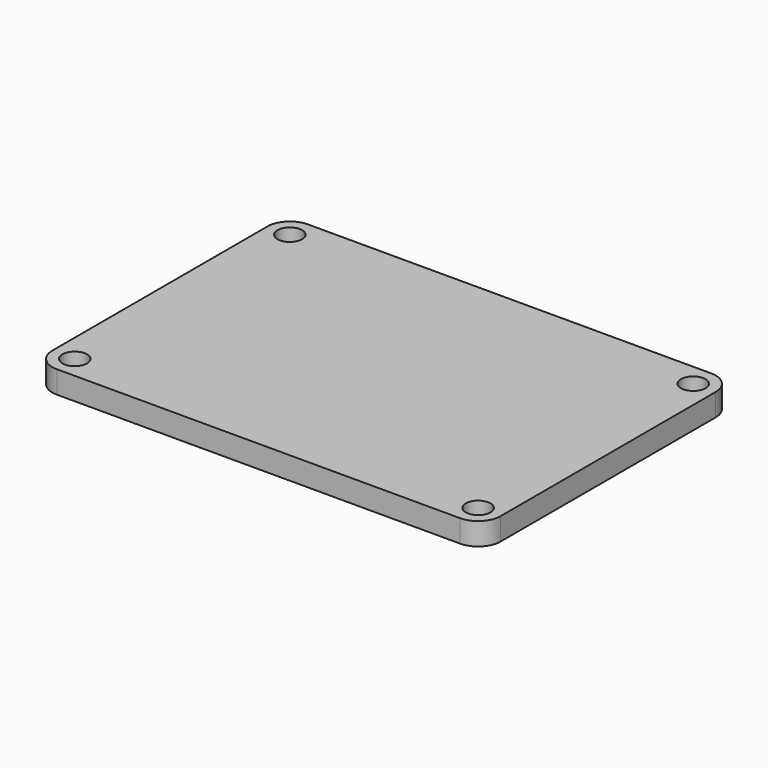
from build123d import *

# Parameters (mm, degrees)
F0_W     = 100
F0_H     = 70
F0_W_2   = 90
F0_H_2   = 60
F1_DEPTH = 5
F2_R     = 5
F4_D     = 5.5


with BuildPart() as f1:
    # F0 (on Top) → F1 (new body)
    with BuildSketch(Plane.XY):
        Rectangle(F0_W, F0_H)
        Rectangle(F0_W_2, F0_H_2, mode=Mode.SUBTRACT)
        Rectangle(F0_W_2, F0_H_2)
    extrude(amount=-F1_DEPTH)

    # F2
    f2_edges = [f1.edges().sort_by_distance(p)[0] for p in [
        (-50, -35, -2.5),
        (-50, 35, -2.5),
        (50, -35, -2.5),
        (50, 35, -2.5),
    ]]
    fillet(f2_edges, radius=F2_R)

    # F4 (through all)
    with Locations(Plane.XY):
        with Locations((-45, 30), (-45, -30), (45, -30), (45, 30)):
            Hole(F4_D / 2)


solid = f1.part
